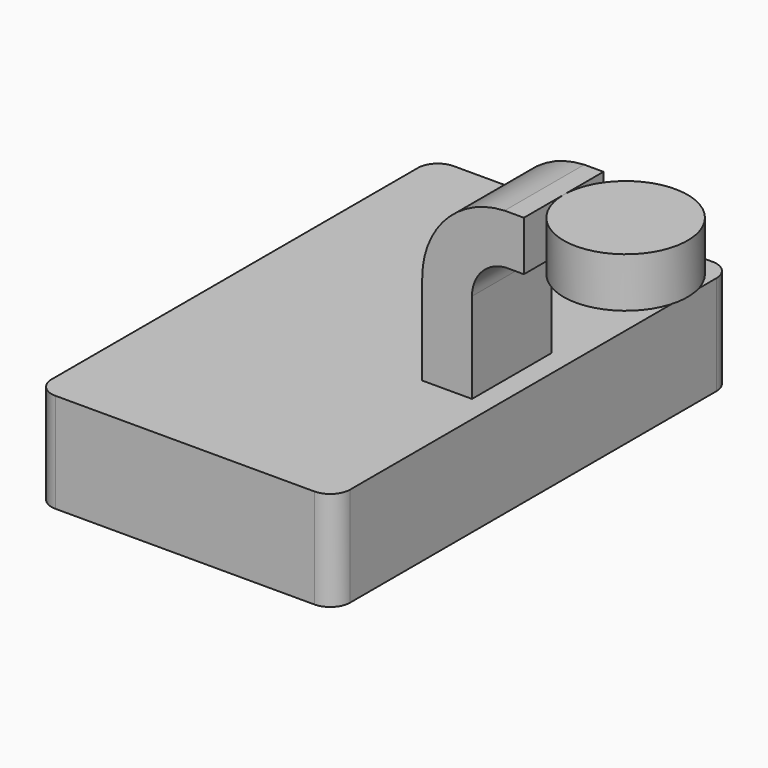
from build123d import *

# Parameters (mm, degrees)
F1_DEPTH = 63.5
F2_DEPTH = 12.7
F0_W     = 15.8150978086
F0_H     = 12.7
F4_R     = 5.08


with BuildPart() as f1:
    # F0 (on Front) → F1 (new body, symmetric)
    with BuildSketch(Plane.XZ):
        Polygon((-38.1, -12.7), (38.1, -12.7), (38.1, 12.7), (32.6224114357, 12.7), (19.9224114357, 12.7), (-38.1, 12.7), align=None)
    extrude(amount=F1_DEPTH, both=True)

    # F0 (on Front) → F2 (join, symmetric)
    with BuildSketch(Plane.XZ):
        with BuildLine():
            Line((19.9224114357, 12.7), (32.6224114357, 12.7))
            Line((32.6224114357, 12.7), (32.6224114357, 35.7757893081))
            ThreePointArc((32.6224114357, 35.7757893081), (35.1228147899, 42.1092562003), (41.2753674716, 45.0266035067))
            Line((41.2753674716, 45.0266035067), (45.8637634207, 45.0266035067))
            Line((45.8637634207, 45.0266035067), (45.8637634207, 57.7266035067))
            Line((45.8637634207, 57.7266035067), (40.9414269352, 57.7266035067))
            ThreePointArc((40.9414269352, 57.7266035067), (26.0245349942, 50.971489823), (19.9224114357, 35.7757893081))
            Line((19.9224114357, 35.7757893081), (19.9224114357, 12.7))
        make_face()
    extrude(amount=F2_DEPTH, both=True)

    # F4
    f4_edges = [f1.edges().sort_by_distance(p)[0] for p in [
        (-38.1, -63.5, 0),
        (38.1, -63.5, 0),
        (-38.1, 63.5, 0),
        (38.1, 63.5, 0),
    ]]
    fillet(f4_edges, radius=F4_R)


with BuildPart() as f3:
    # F0 (on Front) → F3 (revolve)
    with BuildSketch(Plane.XZ):
        with Locations((53.771312325, 51.3766035067)):
            Rectangle(F0_W, F0_H)
    revolve(axis=Axis((61.6788612294, 0, 51.3766035067), (0, 0, -1)))


solid = Compound([f1.part, f3.part])
